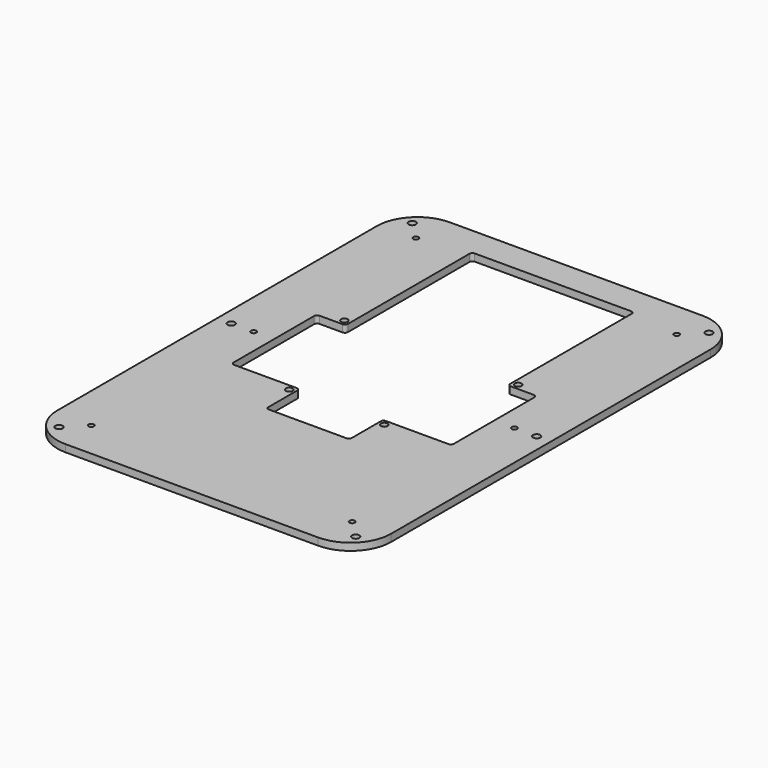
from build123d import *

# Parameters (mm, degrees)
PAD_DEPTH       = 3.175
SKETCH001_R     = 1.5875
POCKET_DEPTH    = 3.176
SKETCH002_R     = 1.5
POCKET001_DEPTH = 3.176
SKETCH003_R     = 1.1684
POCKET002_DEPTH = 3.176


with BuildPart() as part:
    # Sketch → Pad (new body)
    with BuildSketch(Plane.XY):
        with BuildLine():
            ThreePointArc((-55.372, 105.283), (-67.944359, 100.075359), (-73.152, 87.503))
            Line((-73.152, -87.503), (-73.152, 87.503))
            ThreePointArc((-73.152, -87.503), (-67.944359, -100.075359), (-55.372, -105.283))
            Line((55.372, -105.283), (-55.372, -105.283))
            ThreePointArc((55.372, -105.283), (67.944359, -100.075359), (73.152, -87.503))
            Line((73.152, 87.503), (73.152, -87.503))
            ThreePointArc((73.152, 87.503), (67.944359, 100.075359), (55.372, 105.283))
            Line((-55.372, 105.283), (55.372, 105.283))
        make_face()
    extrude(amount=PAD_DEPTH)

    # Sketch001 (on DatumPlane) → Pocket (cut, through all)
    with BuildSketch(Plane.XY.offset(3.175)):
        with Locations((-65.024, 96.774)):
            Circle(SKETCH001_R)
        with Locations((65.024, 96.774)):
            Circle(SKETCH001_R)
        with Locations((65.024, -96.774)):
            Circle(SKETCH001_R)
        with Locations((-65.024, -96.774)):
            Circle(SKETCH001_R)
        with Locations((-66.929, 0)):
            Circle(SKETCH001_R)
        with Locations((66.929, 0)):
            Circle(SKETCH001_R)
    extrude(amount=-POCKET_DEPTH, mode=Mode.SUBTRACT)

    # Sketch002 (on DatumPlane) → Pocket001 (cut, through all)
    with BuildSketch(Plane.XY.offset(3.175)):
        with Locations((-38.1, 25.905)):
            Circle(SKETCH002_R)
        with Locations((38.1, 25.905)):
            Circle(SKETCH002_R)
        with Locations((-20.828, -25.905)):
            Circle(SKETCH002_R)
        with Locations((20.828, -25.905)):
            Circle(SKETCH002_R)
        with BuildLine():
            Line((-18.288, -29.08), (-18.288, -40.51))
            ThreePointArc((-18.288, -40.51), (-17.916026, -41.408026), (-17.018, -41.78))
            Line((-17.018, -41.78), (17.018, -41.78))
            ThreePointArc((17.018, -41.78), (17.916026, -41.408026), (18.288, -40.51))
            Line((18.288, -40.51), (18.288, -29.08))
            Line((18.288, -29.08), (18.288, -24.635))
            ThreePointArc((19.558, -23.365), (18.659974, -23.736974), (18.288, -24.635))
            Line((19.558, -23.365), (46.99, -23.365))
            ThreePointArc((46.99, -23.365), (47.888026, -22.993026), (48.26, -22.095))
            Line((48.26, -22.095), (48.26, 22.095))
            ThreePointArc((48.26, 22.095), (47.888026, 22.993026), (46.99, 23.365))
            Line((46.99, 23.365), (36.83, 23.365))
            ThreePointArc((35.56, 24.635), (35.931974, 23.736974), (36.83, 23.365))
            Line((35.56, 24.635), (35.56, 29.08))
            Line((35.56, 29.08), (35.56, 91.31))
            ThreePointArc((35.56, 91.31), (35.188026, 92.208026), (34.29, 92.58))
            Line((34.29, 92.58), (-34.29, 92.58))
            ThreePointArc((-34.29, 92.58), (-35.188026, 92.208026), (-35.56, 91.31))
            Line((-35.56, 91.31), (-35.56, 29.08))
            Line((-35.56, 29.08), (-35.56, 24.635))
            ThreePointArc((-36.83, 23.365), (-35.931974, 23.736974), (-35.56, 24.635))
            Line((-36.83, 23.365), (-46.99, 23.365))
            ThreePointArc((-46.99, 23.365), (-47.888026, 22.993026), (-48.26, 22.095))
            Line((-48.26, 22.095), (-48.26, -22.095))
            ThreePointArc((-48.26, -22.095), (-47.888026, -22.993026), (-46.99, -23.365))
            Line((-46.99, -23.365), (-19.558, -23.365))
            ThreePointArc((-18.288, -24.635), (-18.659974, -23.736974), (-19.558, -23.365))
            Line((-18.288, -24.635), (-18.288, -29.08))
        make_face()
    extrude(amount=-POCKET001_DEPTH, mode=Mode.SUBTRACT)

    # Sketch003 (on DatumPlane) → Pocket002 (cut, through all)
    with BuildSketch(Plane.XY.offset(3.175)):
        with Locations((-57.15, 88.9)):
            Circle(SKETCH003_R)
        with Locations((57.15, 88.9)):
            Circle(SKETCH003_R)
        with Locations((57.15, 0)):
            Circle(SKETCH003_R)
        with Locations((57.15, -88.9)):
            Circle(SKETCH003_R)
        with Locations((-57.15, -88.9)):
            Circle(SKETCH003_R)
        with Locations((-57.15, 0)):
            Circle(SKETCH003_R)
    extrude(amount=-POCKET002_DEPTH, mode=Mode.SUBTRACT)


solid = part.part
